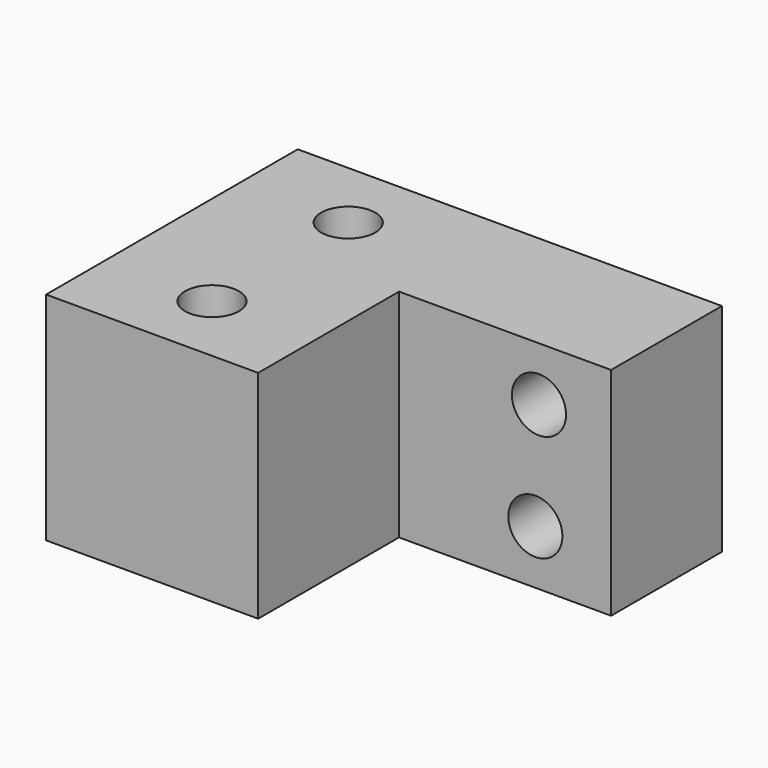
from build123d import *

# Parameters (mm, degrees)
F0_R     = 4.7625
F1_DEPTH = 38.1
F2_R     = 4.7625
F3_DEPTH = 24.385


with BuildPart() as f1:
    # F0 (on Top) → F1 (new body)
    with BuildSketch(Plane.XY):
        Polygon((0, 55.372), (0, 0), (37.338, 0), (37.338, 30.988), (74.676, 30.988), (74.676, 55.372), (37.338, 55.372), align=None)
        with Locations((19.05, 12.7)):
            Circle(F0_R, mode=Mode.SUBTRACT)
        with Locations((19.05, 42.672)):
            Circle(F0_R, mode=Mode.SUBTRACT)
    extrude(amount=F1_DEPTH)

    # F2 (on face) → F3 (cut, through all)
    with BuildSketch(Plane.XZ.offset(-30.988)):
        with Locations((61.976, 28.575)):
            Circle(F2_R)
        with Locations((61.341, 9.525)):
            Circle(F2_R)
    extrude(amount=-F3_DEPTH, mode=Mode.SUBTRACT)


solid = f1.part
